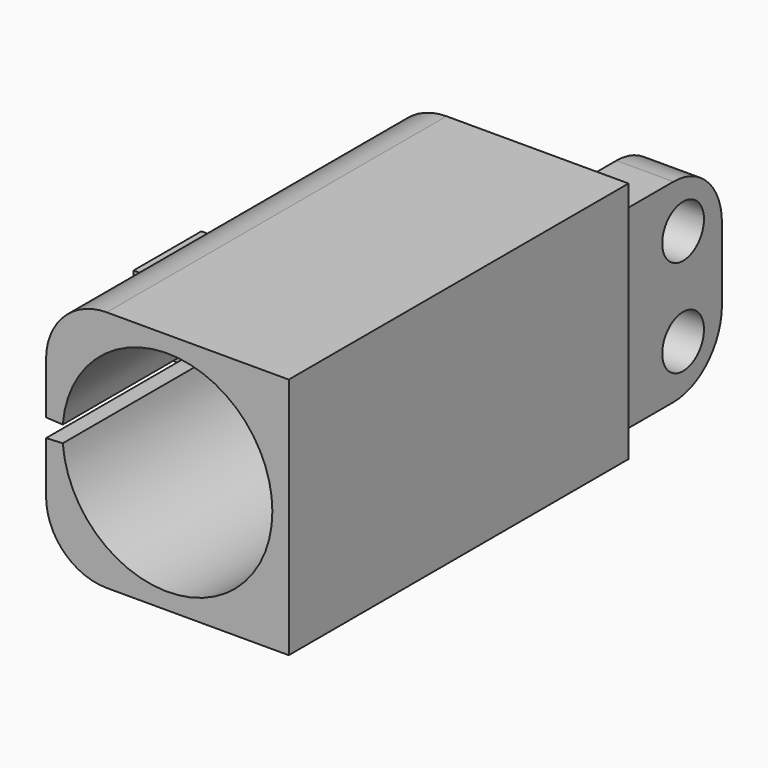
from build123d import *

# Parameters (mm, degrees)
F0_W      = 20
F0_H      = 20
F0_R      = 8.65
F1_DEPTH  = 20
F2_W      = 20
F2_H      = 20
F3_DEPTH  = 15
F4_R      = 4.75
F5_DEPTH  = 8
F6_R      = 2.075
F7_DEPTH  = 11
F9_DEPTH  = 25.3
F10_W     = 6
F10_H     = 2
F11_DEPTH = 3.5
F12_R     = 2.15
F13_DEPTH = 5.23
F14_R     = 1.65
F15_DEPTH = 6.34
F16_R     = 3.5
F17_DEPTH = 31.8
F18_R     = 5
F20_W     = 10
F20_H     = 16
F21_DEPTH = 9.7
F22_DEPTH = 5
F23_R     = 2.15
F24_DEPTH = 12.5
F25_R     = 5


with BuildPart() as f1:
    # F0 (on Front) → F1 (new body)
    with BuildSketch(Plane.XZ):
        Rectangle(F0_W, F0_H)
        Circle(F0_R, mode=Mode.SUBTRACT)
    extrude(amount=F1_DEPTH)

    # F2 (on Front) → F3 (join)
    with BuildSketch(Plane.XZ):
        Rectangle(F2_W, F2_H)
    extrude(amount=-F3_DEPTH)

    # F4 (on Front) → F5 (cut)
    with BuildSketch(Plane.XZ):
        Circle(F4_R)
    extrude(amount=-F5_DEPTH, mode=Mode.SUBTRACT)

    # F6 (on Front) → F7 (cut)
    with BuildSketch(Plane.XZ):
        Circle(F6_R)
    extrude(amount=-F7_DEPTH, mode=Mode.SUBTRACT)

    # F8 (on Front) → F9 (cut, symmetric)
    with BuildSketch(Plane.XZ):
        Polygon((4.25, 0), (-10, 0.75), (-10, -0.75), align=None)
    extrude(amount=F9_DEPTH, both=True, mode=Mode.SUBTRACT)

    # F10 (on Front) → F11 (join, symmetric)
    with BuildSketch(Plane.XZ):
        with Locations((-13, 1.75)):
            Rectangle(F10_W, F10_H)
        with Locations((-13, -1.75)):
            Rectangle(F10_W, F10_H)
    extrude(amount=F11_DEPTH, both=True)

    # F12 (on Top) → F13 (cut, symmetric)
    with BuildSketch(Plane.XY):
        with Locations((-13, 0)):
            Circle(F12_R)
    extrude(amount=F13_DEPTH, both=True, mode=Mode.SUBTRACT)

    # F14 (on Top) → F15 (cut)
    with BuildSketch(Plane.XY):
        with Locations((-13, 0)):
            Circle(F14_R)
    extrude(amount=-F15_DEPTH, mode=Mode.SUBTRACT)

    # F16 (on Front) → F17 (cut)
    with BuildSketch(Plane.XZ):
        Circle(F16_R)
    extrude(amount=-F17_DEPTH, mode=Mode.SUBTRACT)

    # F18
    f18_edges = [f1.edges().sort_by_distance(p)[0] for p in [
        (-10, -2.5, -10),
        (-10, -2.5, 10),
    ]]
    fillet(f18_edges, radius=F18_R)

    # F20 (on Right) → F21 (join)
    with BuildSketch(Plane.YZ):
        with Locations((20, 0)):
            Rectangle(F20_W, F20_H)
    extrude(amount=F21_DEPTH)

    # F20 (on Right) → F22 (cut)
    with BuildSketch(Plane.YZ):
        with Locations((20, 0)):
            Rectangle(F20_W, F20_H)
    extrude(amount=F22_DEPTH, mode=Mode.SUBTRACT)

    # F23 (on face) → F24 (cut, symmetric)
    with BuildSketch(Plane.YZ):
        with Locations((21, 4)):
            Circle(F23_R)
        with Locations((21, -4)):
            Circle(F23_R)
    extrude(amount=F24_DEPTH, both=True, mode=Mode.SUBTRACT)

    # F25
    f25_edges = [f1.edges().sort_by_distance(p)[0] for p in [
        (7.35, 25, -8),
        (7.35, 25, 8),
    ]]
    fillet(f25_edges, radius=F25_R)


solid = f1.part
